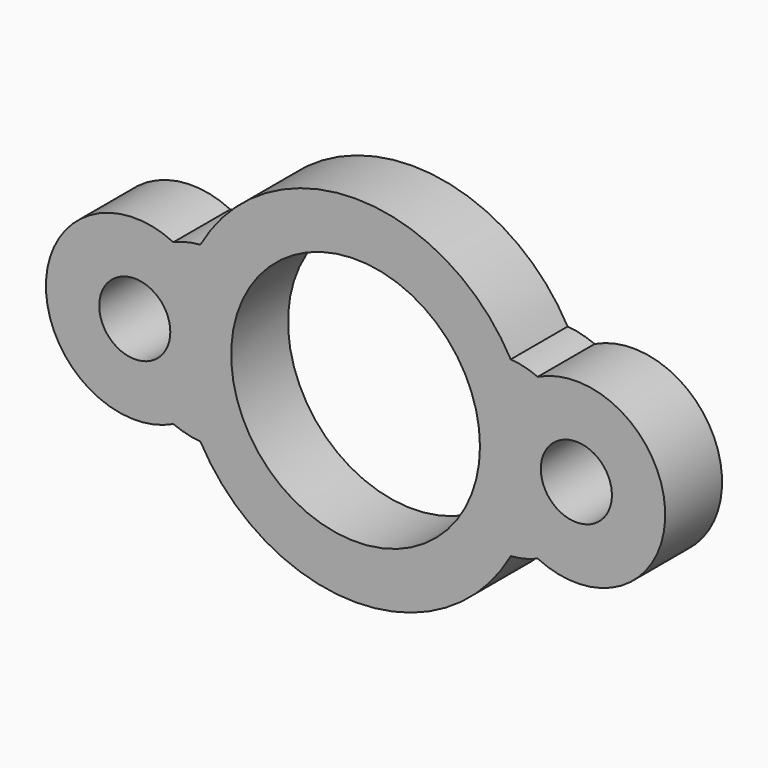
from build123d import *

# Parameters (mm, degrees)
F0_R     = 12.7
F1_DEPTH = 25.4


with BuildPart() as f1:
    # F0 (on Front) → F1 (new body)
    with BuildSketch(Plane.XZ):
        with BuildLine():
            ThreePointArc((-55.4496511867, 30.9448894533), (-61.4544662753, 15.9874505417), (-63.5, 0))
            ThreePointArc((-63.5, 0), (-61.4544662753, -15.9874505417), (-55.4496511867, -30.9448894533))
            ThreePointArc((-55.4496511867, -30.9448894533), (0, -63.5), (55.4496511867, -30.9448894533))
            ThreePointArc((55.4496511867, -30.9448894533), (60.3691549173, -30.174180923), (65.0908594106, -28.5927210679))
            ThreePointArc((65.0908594106, -28.5927210679), (110.6437142577, 0), (65.0908594106, 28.5927210679))
            ThreePointArc((65.0908594106, 28.5927210679), (60.3691549173, 30.174180923), (55.4496511867, 30.9448894533))
            ThreePointArc((55.4496511867, 30.9448894533), (0, 63.5), (-55.4496511867, 30.9448894533))
        make_face()
        with BuildLine():
            ThreePointArc((-44.45, 0), (0, 44.45), (44.45, 0))
            ThreePointArc((44.45, 0), (0, -44.45), (-44.45, 0))
        make_face(mode=Mode.SUBTRACT)
        with BuildLine():
            ThreePointArc((91.5937142577, 0), (78.8937142577, -12.7), (66.1937142577, 0))
            ThreePointArc((66.1937142577, 0), (78.8937142577, 12.7), (91.5937142577, 0))
        make_face(mode=Mode.SUBTRACT)
        with BuildLine():
            ThreePointArc((-55.4496511867, -30.9448894533), (-61.4544662753, -15.9874505417), (-63.5, 0))
            ThreePointArc((-63.5, 0), (-61.4544662753, 15.9874505417), (-55.4496511867, 30.9448894533))
            ThreePointArc((-55.4496511867, 30.9448894533), (-60.3691549173, 30.174180923), (-65.0908594106, 28.5927210679))
            ThreePointArc((-65.0908594106, 28.5927210679), (-110.6437142577, 0), (-65.0908594106, -28.5927210679))
            ThreePointArc((-65.0908594106, -28.5927210679), (-60.3691549173, -30.174180923), (-55.4496511867, -30.9448894533))
        make_face()
        with Locations((-78.8937142577, 0)):
            Circle(F0_R, mode=Mode.SUBTRACT)
    extrude(amount=F1_DEPTH)


solid = f1.part
